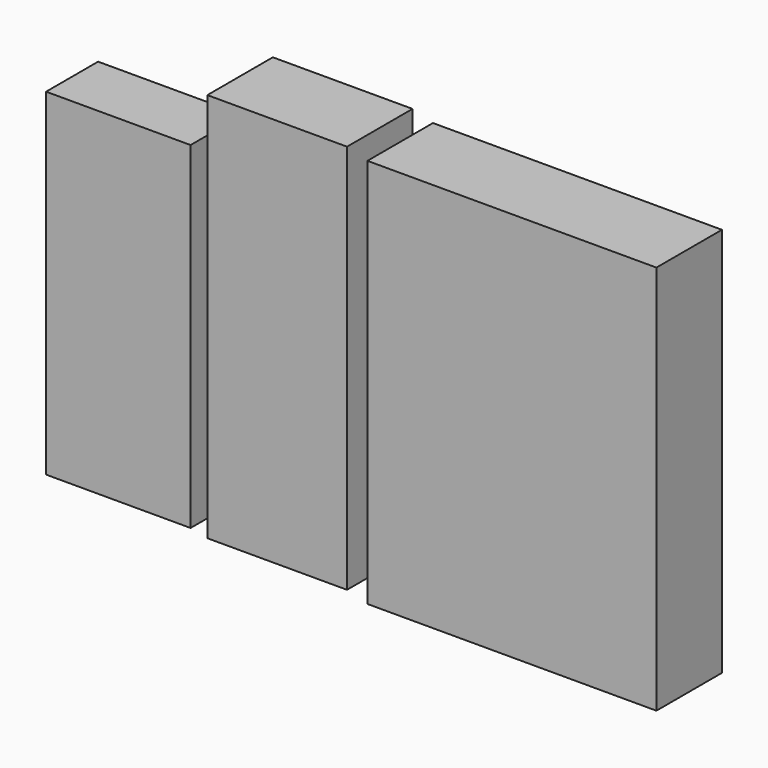
from build123d import *

# Parameters (mm, degrees)
F0_W     = 600
F0_H     = 270
F1_DEPTH = 1400
F2_W     = 580
F2_H     = 340
F3_DEPTH = 1620
F4_W     = 1200
F4_H     = 340
F5_DEPTH = 1620


with BuildPart() as f1:
    # F0 (on Top) → F1 (new body)
    with BuildSketch(Plane.XY):
        Rectangle(F0_W, F0_H)
    extrude(amount=F1_DEPTH)


with BuildPart() as f3:
    # F2 (on face) → F3 (new body)
    with BuildSketch(Plane(origin=(0, 0, 0), x_dir=(1, 0, 0), z_dir=(0, 0, -1))):
        with Locations((677.347478, -12.898982)):
            Rectangle(F2_W, F2_H)
    extrude(amount=-F3_DEPTH)


with BuildPart() as f5:
    # F4 (on face) → F5 (new body)
    with BuildSketch(Plane(origin=(0, 0, 0), x_dir=(1, 0, 0), z_dir=(0, 0, -1))):
        with Locations((1681.126809, 23.286564)):
            Rectangle(F4_W, F4_H)
    extrude(amount=-F5_DEPTH)


solid = Compound([f1.part, f3.part, f5.part])
